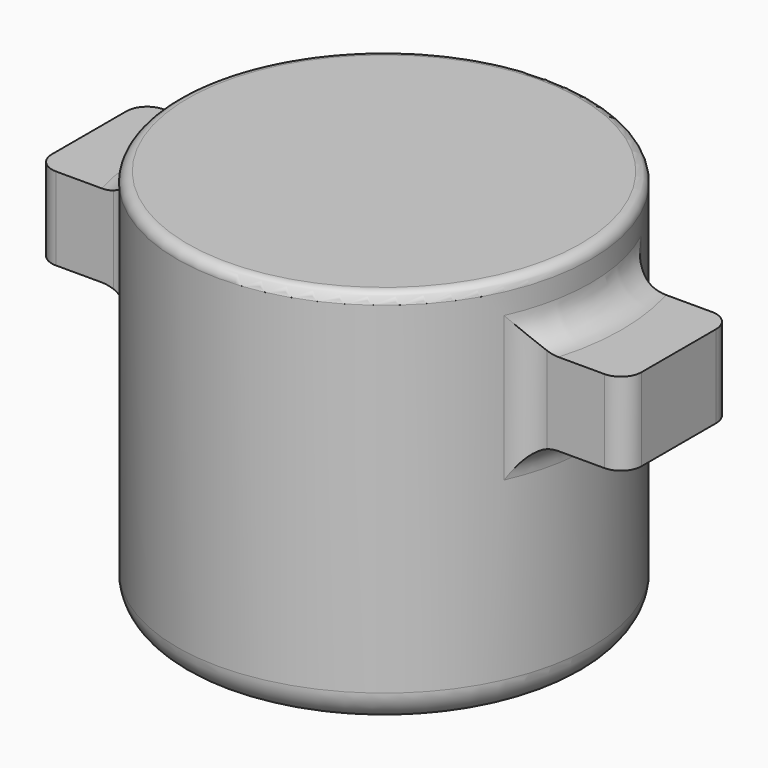
from build123d import *

# Parameters (mm, degrees)
F0_R          = 100
F1_DEPTH      = 185
F2_W          = 62.5
F2_H          = 40
F3_DEPTH      = 32.5
F3_DEPTH_BACK = 32.5
F4_R          = 10
F5_R          = 5
F6_R          = 15


with BuildPart() as f1:
    # F0 (on Top) → F1 (new body)
    with BuildSketch(Plane.XY):
        Circle(F0_R)
    extrude(amount=F1_DEPTH)

    # F2 (on Front) → F3 (join, two sides)
    with BuildSketch(Plane.XZ) as f3_sk:
        with Locations((-111.25, 135)):
            Rectangle(F2_W, F2_H)
        with Locations((111.25, 135)):
            Rectangle(F2_W, F2_H)
    extrude(amount=F3_DEPTH)
    extrude(f3_sk.sketch, amount=-F3_DEPTH_BACK)

    # F4
    f4_edges = [f1.edges().sort_by_distance(p)[0] for p in [
        (-142.5, -32.5, 135),
        (-142.5, 32.5, 135),
        (142.5, -32.5, 135),
        (142.5, 32.5, 135),
    ]]
    fillet(f4_edges, radius=F4_R)

    # F5
    f5_edges = [f1.edges().sort_by_distance(p)[0] for p in [
        (-100, 0, 185),
    ]]
    fillet(f5_edges, radius=F5_R)

    # F6
    f6_edges = [f1.edges().sort_by_distance(p)[0] for p in [
        (100, 0, 167.5),
        (-100, 0, 180),
        (98.633514, -16.47513, 155),
        (94.571402, -32.5, 135),
        (98.633514, 16.47513, 155),
        (98.633514, -16.47513, 115),
        (94.571402, 32.5, 135),
        (100, 0, 57.5),
        (98.633514, 16.47513, 115),
        (-100, 0, 0),
        (-94.571402, -32.5, 135),
        (-100, 0, 115),
        (-94.571402, 32.5, 135),
        (-100, 0, 155),
    ]]
    fillet(f6_edges, radius=F6_R)


solid = f1.part
